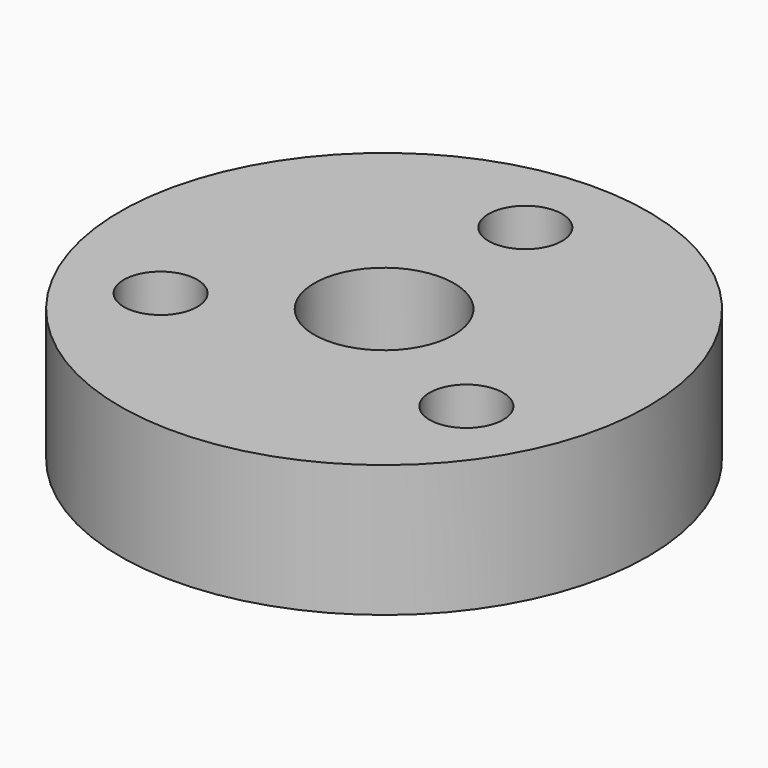
from build123d import *

# Parameters (mm, degrees)
F0_R     = 6
F0_R_2   = 0.835337
F0_R_3   = 1.5875
F1_DEPTH = 3


with BuildPart() as f1:
    # F0 (on Top) → F1 (new body)
    with BuildSketch(Plane.XY):
        with Locations((-48.133865, 13.432336)):
            Circle(F0_R)
        with Locations((-51.609548, 11.425649)):
            Circle(F0_R_2, mode=Mode.SUBTRACT)
        with Locations((-44.658182, 11.425649)):
            Circle(F0_R_2, mode=Mode.SUBTRACT)
        with Locations((-48.133865, 13.432336)):
            Circle(F0_R_3, mode=Mode.SUBTRACT)
        with Locations((-48.133865, 17.44571)):
            Circle(F0_R_2, mode=Mode.SUBTRACT)
    extrude(amount=F1_DEPTH)


solid = f1.part
